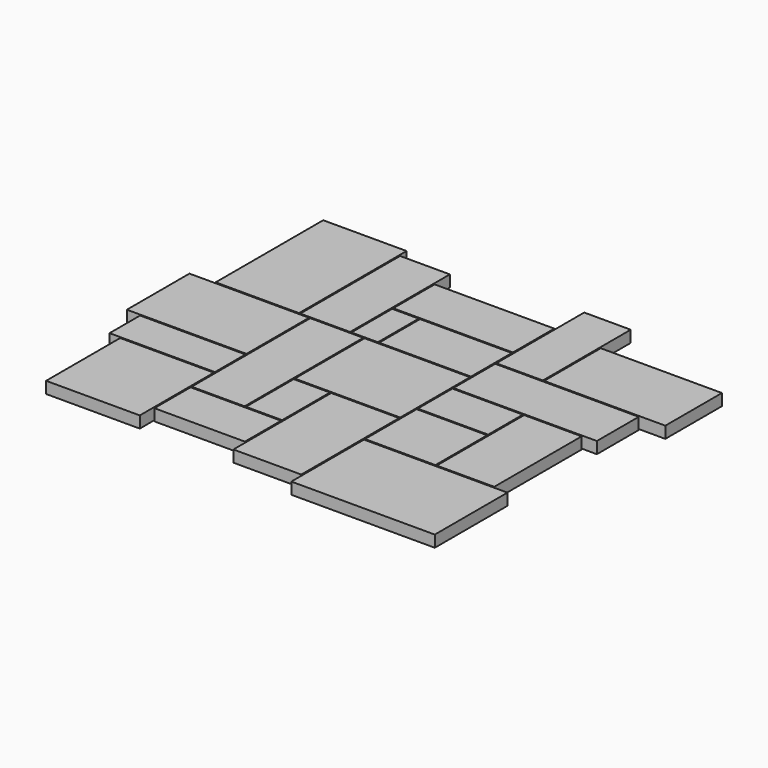
from build123d import *

# Parameters (mm, degrees)
F0_W     = 145
F0_H     = 143.277185
F0_W_2   = 109
F0_H_2   = 67
F0_H_3   = 100
F0_W_3   = 89
F0_H_4   = 169
F0_W_4   = 72
F0_H_5   = 170
F0_W_5   = 105
F0_H_6   = 189.237455
F0_W_6   = 185.119958
F0_H_7   = 80
F0_W_7   = 77
F0_H_8   = 193
F0_W_8   = 129
F0_H_9   = 208
F0_W_9   = 142
F0_H_10  = 79
F0_W_10  = 56
F0_H_11  = 92.5
F1_DEPTH = 18


with BuildPart() as f1:
    # F0 (on Top) → F1 (new body)
    with BuildSketch(Plane.XY):
        with Locations((-330.999712, -186.620078)):
            Rectangle(F0_W, F0_H)
        with Locations((47.120246, -1.046761)):
            Rectangle(F0_W_2, F0_H_2)
        Polygon((-152.499712, 69.018514), (-172.499712, 69.018514), (-172.499712, -65.981486), (-9.379754, -65.981486), (-9.379754, -35.546761), (-9.379754, 33.453239), (-9.379754, 69.018514), align=None)
        with Locations((47.120246, -86.546761)):
            Rectangle(F0_W_2, F0_H_3)
        Polygon((-174.499712, 69.018514), (-195.499712, 69.018514), (-256.499712, 69.018514), (-256.499712, -52.981486), (-256.499712, -113.981486), (-256.499712, -160.481486), (-174.499712, -160.481486), (-174.499712, -66.981486), align=None)
        Polygon((-7.379754, -138.546761), (-7.379754, -279.046761), (214.620246, -279.046761), (214.620246, -138.546761), (192.620246, -138.546761), (102.620246, -138.546761), align=None)
        with Locations((148.120246, -52.046761)):
            Rectangle(F0_W_3, F0_H_4)
        Polygon((-7.379754, 34.453239), (214.620246, 34.453239), (214.620246, 115.453239), (65.620246, 115.453239), (-7.379754, 115.453239), align=None)
        with Locations((28.620246, 202.453239)):
            Rectangle(F0_W_4, F0_H_5)
        Polygon((254.120246, 226.953239), (66.620246, 226.953239), (66.620246, 117.453239), (214.620246, 117.453239), (254.120246, 117.453239), align=None)
        with Locations((-61.999712, -162.600213)):
            Rectangle(F0_W_5, F0_H_6)
        with Locations((-101.939733, 192.018514)):
            Rectangle(F0_W_6, F0_H_7)
        Polygon((-404.499712, 69.018514), (-443.499712, 69.018514), (-443.499712, -51.981486), (-421.499712, -51.981486), (-258.499712, -51.981486), (-258.499712, 69.018514), (-274.499712, 69.018514), (-275.499712, 69.018514), align=None)
        Polygon((-256.499712, -232.481486), (-116.499712, -232.481486), (-116.499712, -162.481486), (-173.499712, -162.481486), (-256.499712, -162.481486), align=None)
        with Locations((-234.999712, 167.518514)):
            Rectangle(F0_W_7, F0_H_8)
        with Locations((-339.999712, 175.018514)):
            Rectangle(F0_W_8, F0_H_9)
        Polygon((-194.499712, 150.018514), (-194.499712, 71.018514), (-173.499712, 71.018514), (-153.499712, 71.018514), (-153.499712, 150.018514), align=None)
        with Locations((-80.499712, 110.518514)):
            Rectangle(F0_W_9, F0_H_10)
        with Locations((-144.499712, -114.231486)):
            Rectangle(F0_W_10, F0_H_11)
        Polygon((-258.499712, -112.981486), (-258.499712, -53.981486), (-421.499712, -53.981486), (-421.499712, -112.981486), (-403.499712, -112.981486), align=None)
    extrude(amount=F1_DEPTH)


solid = f1.part
